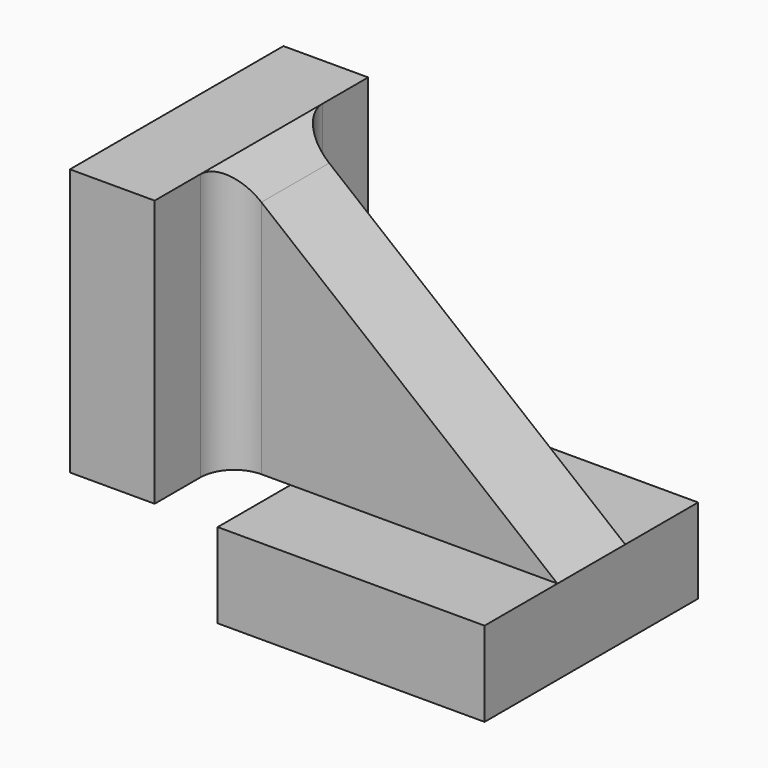
from build123d import *

# Parameters (mm, degrees)
F0_W          = 39.99992
F0_H          = 39.99992
F1_DEPTH      = 12.7
F3_D          = 3.6576
F3_DEPTH      = 7.62
F3_TIP        = 1.0988539001
F4_W          = 39.99992
F4_H          = 12.7
F5_DEPTH      = 39.99992
F6_W          = 39.99992
F6_H          = 39.99992
F7_DEPTH      = 22.14626
F7_DEPTH_BACK = 3.048
F8_W          = 12.49426
F8_H          = 13.64996
F9_DEPTH      = 39.99992
F10_R         = 5.08
F12_D         = 3.6576
F12_DEPTH     = 7.62
F12_TIP       = 1.0988539001
F14_DEPTH     = 25.4


with BuildPart() as f1:
    # F0 (on Top) → F1 (new body)
    with BuildSketch(Plane.XY):
        Rectangle(F0_W, F0_H)
    extrude(amount=F1_DEPTH)

    # F3
    with Locations(Plane(origin=(0, 0, 0), x_dir=(1, 0, 0), z_dir=(0, 0, -1))):
        with Locations((-15.875, -15.875), (15.875, -15.875), (15.875, 15.875), (-15.875, 15.875)):
            Hole(F3_D / 2, depth=F3_DEPTH)
            with Locations((0, 0, -(F3_DEPTH + F3_TIP / 2))):  # 118° drill point
                Cone(0, F3_D / 2, F3_TIP, mode=Mode.SUBTRACT)

    # F4 (on face) → F5 (join)
    with BuildSketch(Plane.XY.offset(12.7)):
        Rectangle(F4_W, F4_H)
    extrude(amount=F5_DEPTH)

    # F6 (on face) → F7 (join, two sides)
    with BuildSketch(Plane(origin=(-19.99996, 0, 0), x_dir=(0, -1, 0), z_dir=(-1, 0, 0))) as f7_sk:
        with Locations((0, 32.69996)):
            Rectangle(F6_W, F6_H)
    extrude(amount=F7_DEPTH)
    extrude(f7_sk.sketch, amount=-F7_DEPTH_BACK)

    # F8 (on face) → F9 (cut)
    with BuildSketch(Plane.XY.offset(52.69992)):
        with Locations((-23.19909, 13.17498)):
            Rectangle(F8_W, F8_H)
        with Locations((-23.19909, -13.17498)):
            Rectangle(F8_W, F8_H)
    extrude(amount=-F9_DEPTH, mode=Mode.SUBTRACT)

    # F10
    f10_edges = [f1.edges().sort_by_distance(p)[0] for p in [
        (-29.44622, -6.35, 32.69996),
        (-29.44622, 6.35, 32.69996),
    ]]
    fillet(f10_edges, radius=F10_R)

    # F12
    with Locations(Plane(origin=(-42.14622, 0, 0), x_dir=(0, -1, 0), z_dir=(-1, 0, 0))):
        with Locations((-15.875, 48.57496), (15.875, 48.57496), (15.875, 16.82496), (-15.875, 16.82496)):
            Hole(F12_D / 2, depth=F12_DEPTH)
            with Locations((0, 0, -(F12_DEPTH + F12_TIP / 2))):  # 118° drill point
                Cone(0, F12_D / 2, F12_TIP, mode=Mode.SUBTRACT)

    # F13 (on face) → F14 (cut, symmetric)
    with BuildSketch(Plane.XZ.offset(6.35)):
        Polygon((-29.44622, 52.69992), (-24.36622, 48.5904095464), (-24.36622, 52.69992), align=None)
        Polygon((-24.36622, 48.5904095464), (19.99996, 12.7), (19.99996, 52.69992), (-24.36622, 52.69992), align=None)
    extrude(amount=F14_DEPTH, both=True, mode=Mode.SUBTRACT)


solid = f1.part
